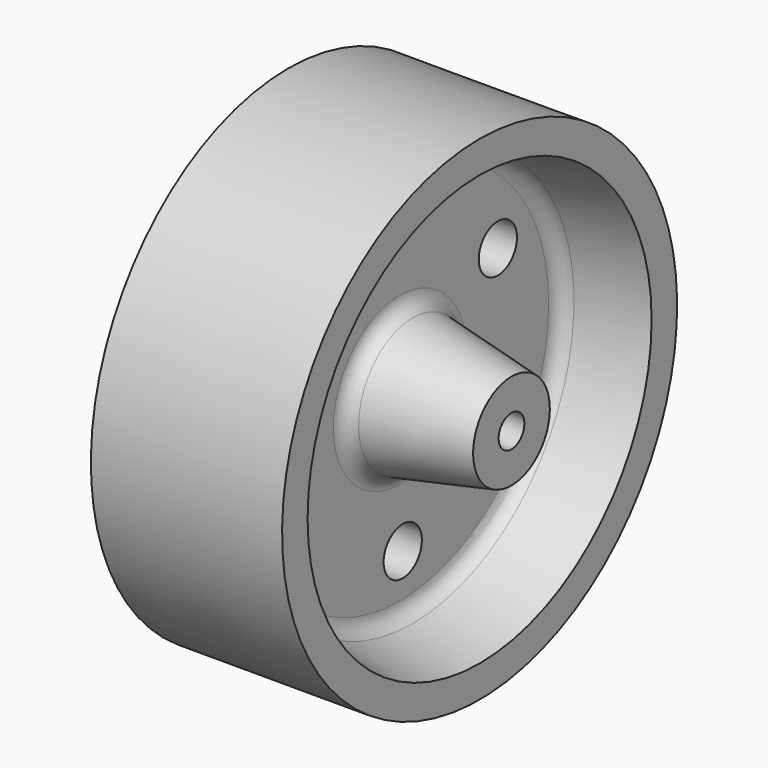
from build123d import *

# Parameters (mm, degrees)
F2_R     = 4.7625
F3_DEPTH = 50.801
F4_DEPTH = 50.801
F5_DEPTH = 50.801


with BuildPart() as f1:
    # F0 (on Front) → F1 (revolve)
    with BuildSketch(Plane.XZ):
        with BuildLine():
            Line((-25.4, -2.36029), (25.4, -2.336609))
            Line((25.4, -2.336609), (25.4, 4.013391))
            Line((25.4, 4.013391), (5.731009, 7.923037))
            ThreePointArc((5.731009, 7.923037), (3.895828, 9.022749), (3.175, 11.037114))
            Line((3.175, 11.037114), (3.175, 31.509514))
            ThreePointArc((3.175, 31.509514), (3.894639, 33.522429), (5.727331, 34.622857))
            Line((5.727331, 34.622857), (19.05, 37.287391))
            Line((19.05, 37.287391), (19.05, 43.637391))
            Line((19.05, 43.637391), (-19.05, 43.61371))
            Line((-19.05, 43.61371), (-19.05, 37.26371))
            Line((-19.05, 37.26371), (-5.727331, 34.599176))
            ThreePointArc((-5.727331, 34.599176), (-3.894639, 33.498747), (-3.175, 31.485832))
            Line((-3.175, 31.485832), (-3.175, 11.013432))
            ThreePointArc((-3.175, 11.013432), (-3.895828, 8.999068), (-5.731009, 7.899356))
            Line((-5.731009, 7.899356), (-25.4, 3.98971))
            Line((-25.4, 3.98971), (-25.4, -2.36029))
        make_face()
    revolve(axis=Axis((0.372264, 0, -5.53529), (1, 0, 0)))

    # F2 (on face) → F3 (cut, through all)
    with BuildSketch(Plane.YZ.offset(25.4)):
        with Locations((-25.092236, 8.136225)):
            Circle(F2_R)
    extrude(amount=-F3_DEPTH, mode=Mode.SUBTRACT)

    # F2 (on face) → F4 (cut, through all)
    with BuildSketch(Plane.YZ.offset(25.4)):
        with Locations((0.706239, -34.101561)):
            Circle(F2_R)
    extrude(amount=-F4_DEPTH, mode=Mode.SUBTRACT)

    # F2 (on face) → F5 (cut, through all)
    with BuildSketch(Plane.YZ.offset(25.4)):
        with Locations((24.385997, 9.359466)):
            Circle(F2_R)
    extrude(amount=-F5_DEPTH, mode=Mode.SUBTRACT)


solid = f1.part
